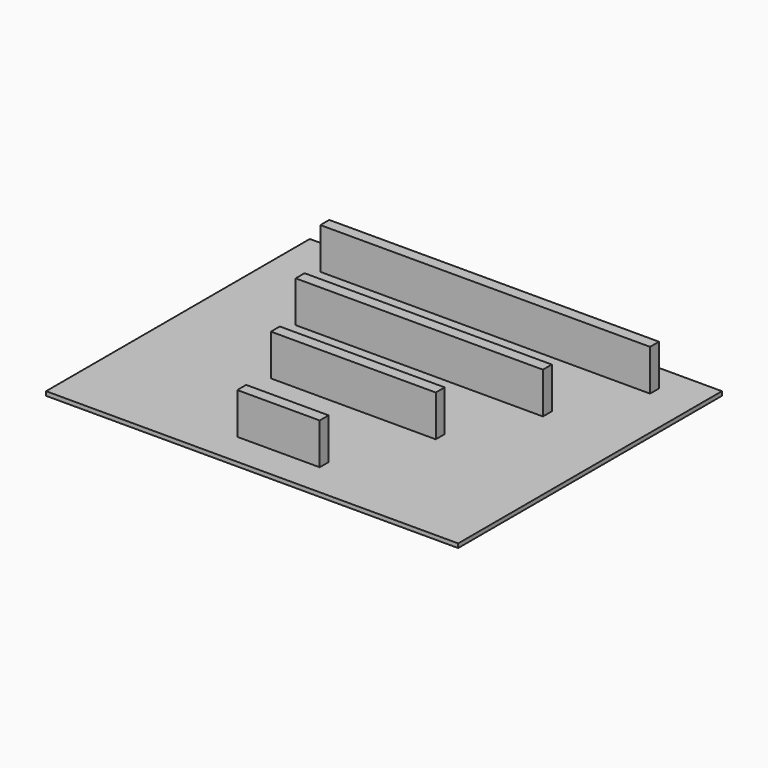
from build123d import *

# Parameters (mm, degrees)
SKETCH_W     = 50
SKETCH_H     = 40
PAD_DEPTH    = 0.5
PAD001_DEPTH = 5


with BuildPart() as part:
    # Sketch → Pad (new body)
    with BuildSketch(Plane.XY):
        with Locations((25, 20)):
            Rectangle(SKETCH_W, SKETCH_H)
    extrude(amount=PAD_DEPTH)

    # Sketch001 (on Face6 of Pad) → Pad001 (join)
    with BuildSketch(Plane.XY.offset(0.5)):
        Polygon((30, 5.35), (30, 4), (20, 4), (20, 5.35), (25, 5.35), align=None)
        Polygon((35, 15.35), (35, 16.7), (25, 16.7), (15, 16.7), (15, 15.35), (25, 15.35), align=None)
        Polygon((40, 25.35), (40, 26.7), (25, 26.7), (10, 26.7), (10, 25.35), (25, 25.35), align=None)
        Polygon((5, 35.35), (45, 35.35), (45, 36.7), (25, 36.7), (5, 36.7), align=None)
    extrude(amount=PAD001_DEPTH)


solid = part.part
